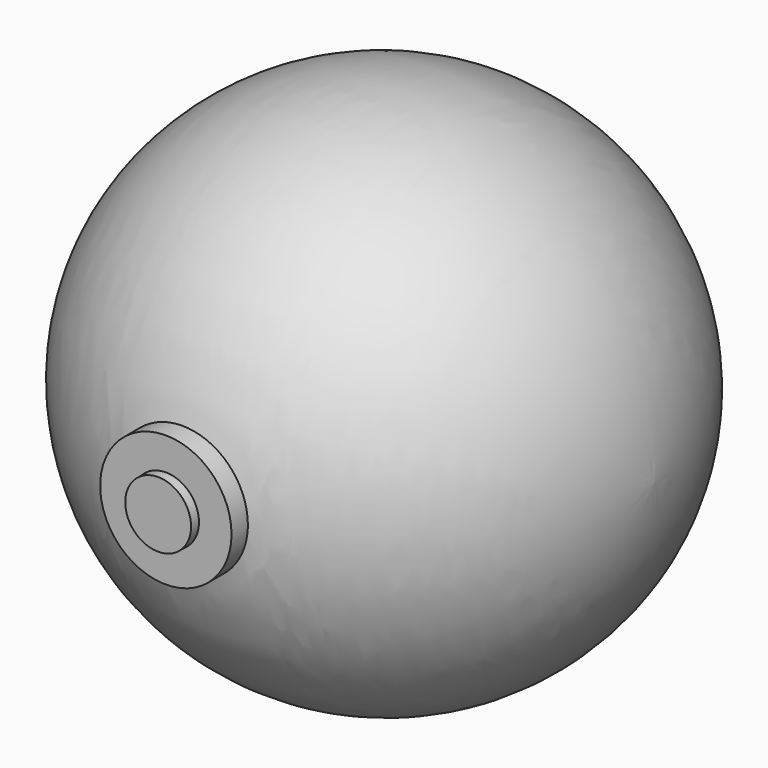
from build123d import *

# Parameters (mm, degrees)
F2_R     = 15.706725
F2_R_2   = 7.919162
F3_DEPTH = 65.20441
F4_R     = 7.868544
F5_DEPTH = 67.5028


with BuildPart() as f1:
    # F0 (on Front) → F1 (revolve)
    with BuildSketch(Plane.XZ):
        with BuildLine():
            Line((-64.462598, 0), (64.462598, 0))
            ThreePointArc((64.462598, 0), (0, 62.266413), (-64.462598, 0))
        make_face()
    revolve(axis=Axis((0, 0, 0), (1, 0, 0)))

    # F2 (on Front) → F3 (join)
    with BuildSketch(Plane.XZ):
        Circle(F2_R)
        Circle(F2_R_2, mode=Mode.SUBTRACT)
    extrude(amount=F3_DEPTH)

    # F4 (on Front) → F5 (join)
    with BuildSketch(Plane.XZ):
        Circle(F4_R)
    extrude(amount=F5_DEPTH)


solid = f1.part
